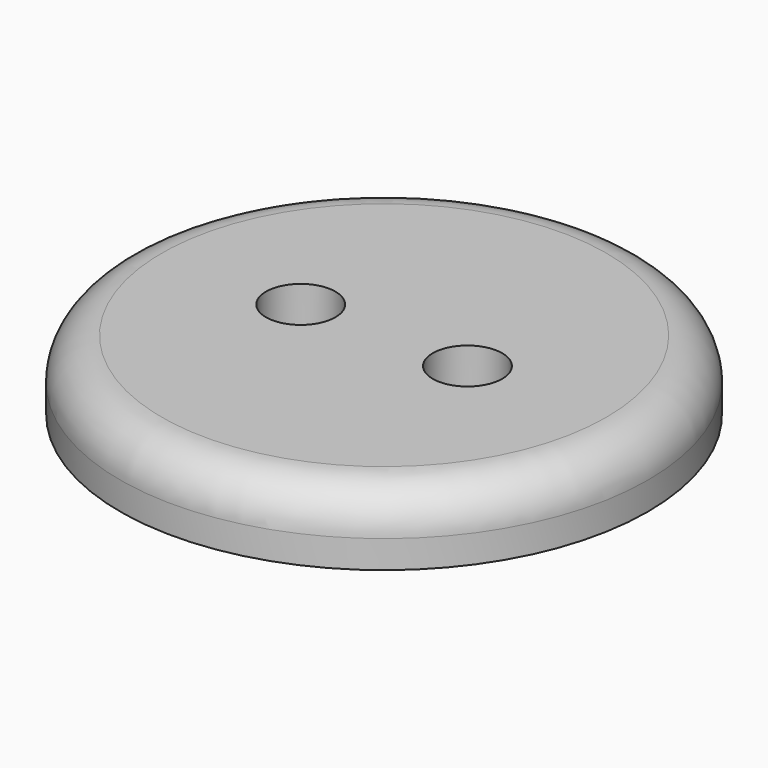
from build123d import *

# Parameters (mm, degrees)
F0_R     = 19
F0_R_2   = 2.5
F1_DEPTH = 5
F2_R     = 3


with BuildPart() as f1:
    # F0 (on Top) → F1 (new body)
    with BuildSketch(Plane.XY):
        Circle(F0_R)
        with Locations((-6, 0)):
            Circle(F0_R_2, mode=Mode.SUBTRACT)
        with Locations((6, 0)):
            Circle(F0_R_2, mode=Mode.SUBTRACT)
    extrude(amount=F1_DEPTH)

    # F2
    f2_edges = [f1.edges().sort_by_distance(p)[0] for p in [
        (-19, 0, 5),
    ]]
    fillet(f2_edges, radius=F2_R)


solid = f1.part
